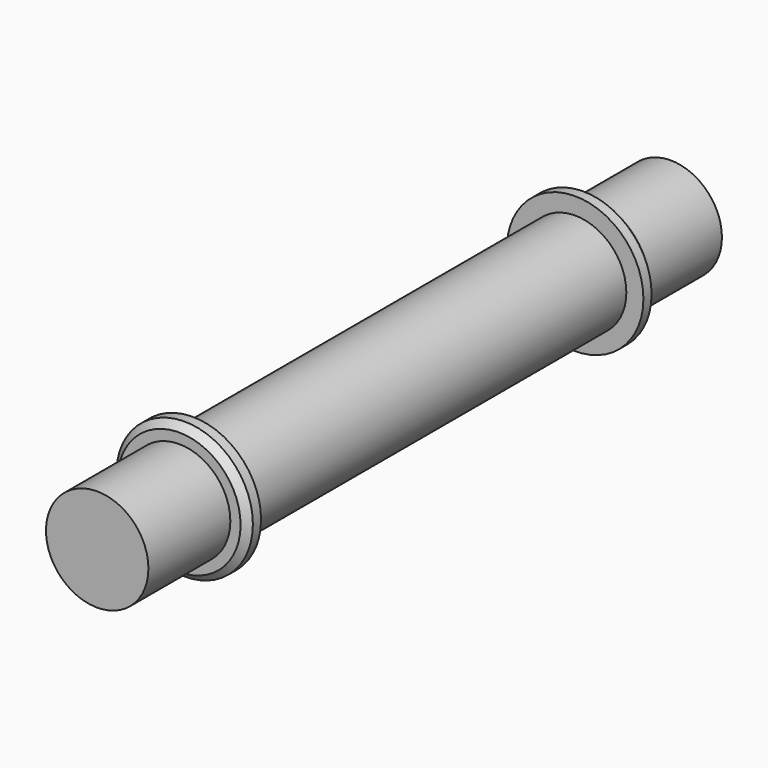
from build123d import *

# Parameters (mm, degrees)
F0_R     = 7.50062
F1_DEPTH = 105.00106
F3_R     = 9.99998
F4_DEPTH = 2.49936
F6_R     = 9.99998
F7_DEPTH = 2.49936
F8_SIZE  = 0.999998


with BuildPart() as f1:
    # F0 (on Front) → F1 (new body)
    with BuildSketch(Plane.XZ):
        Circle(F0_R)
    extrude(amount=-F1_DEPTH)

    # F3 (on offset) → F4 (join)
    with BuildSketch(Plane.XZ.offset(-15.00124)):
        Circle(F3_R)
    extrude(amount=-F4_DEPTH)

    # F6 (on offset) → F7 (join)
    with BuildSketch(Plane(origin=(0, 89.99982, 0), x_dir=(1, 0, 0), z_dir=(0, 1, 0))):
        Circle(F6_R)
    extrude(amount=-F7_DEPTH)

    # F8
    f8_edges = [f1.edges().sort_by_distance(p)[0] for p in [
        (-9.99998, 15.00124, 0),
        (-9.99998, 89.99982, 0),
    ]]
    chamfer(f8_edges, length=F8_SIZE)


solid = f1.part
